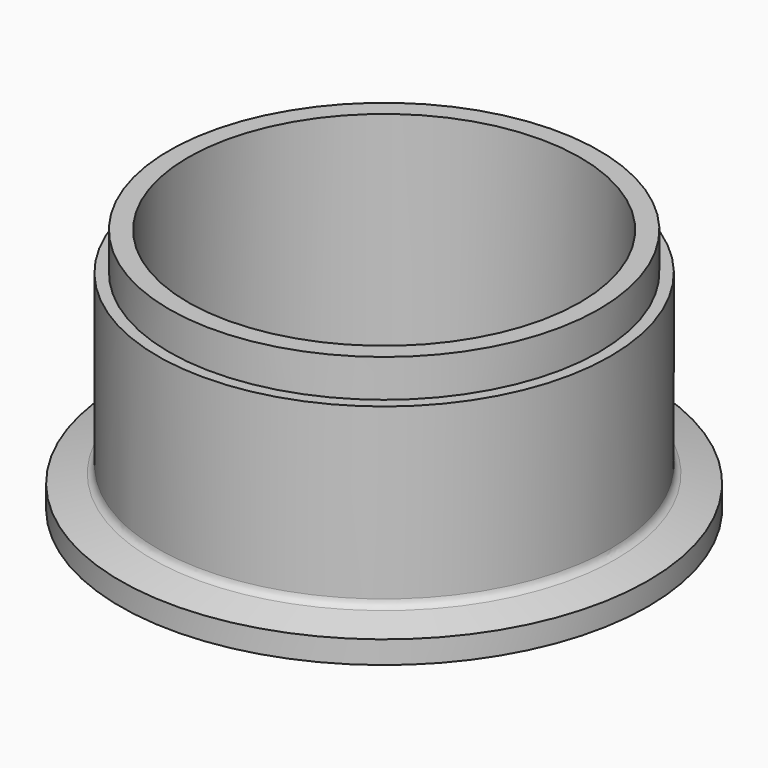
from build123d import *

# Parameters (mm, degrees)
F2_R     = 30
F2_R_2   = 28.5
F3_DEPTH = 5
F4_R     = 1


with BuildPart() as f1:
    # F0 (on Front) → F1 (revolve)
    with BuildSketch(Plane.XZ):
        Polygon((0, 4), (0, 0), (35, 0), (35, 3), (30, 4.339746), (30, 32.57956), (26, 32.57956), (26, 4), align=None)
    revolve(axis=Axis((0, 0, 16.28978), (0, 0, 1)))

    # F2 (on face) → F3 (cut)
    with BuildSketch(Plane.XY.offset(32.57956)):
        Circle(F2_R)
        Circle(F2_R_2, mode=Mode.SUBTRACT)
    extrude(amount=-F3_DEPTH, mode=Mode.SUBTRACT)

    # F4
    f4_edges = [f1.edges().sort_by_distance(p)[0] for p in [
        (-30, 0, 4.339746),
    ]]
    fillet(f4_edges, radius=F4_R)


solid = f1.part
